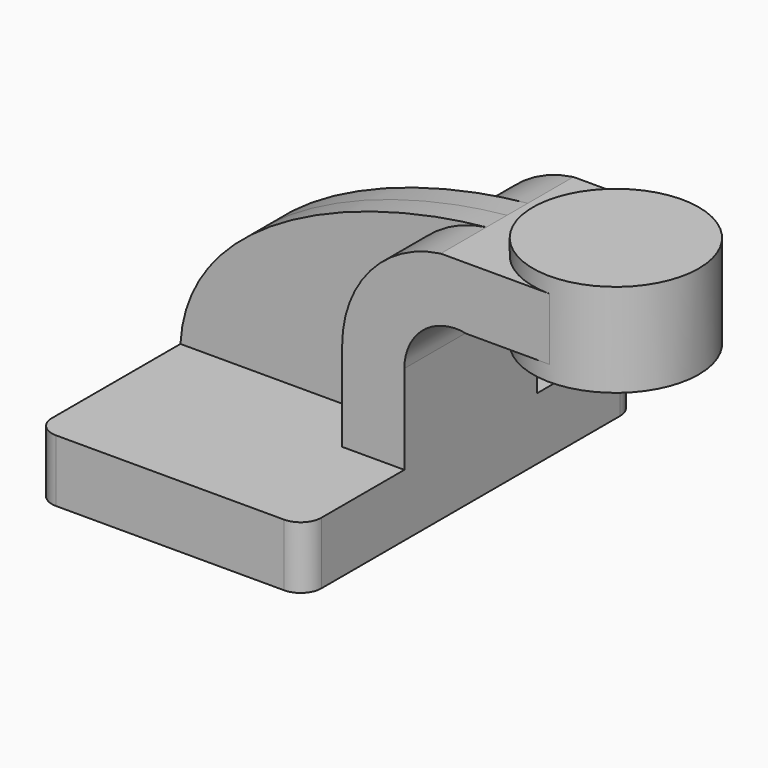
from build123d import *

# Parameters (mm, degrees)
F1_DEPTH = 63.5
F2_DEPTH = 25.4
F3_DEPTH = 7.9375
F4_DEPTH = 25.4
F6_R     = 6.35


with BuildPart() as f1:
    # F0 (on Front) → F1 (new body, symmetric)
    with BuildSketch(Plane.XZ):
        Polygon((-41.275, 9.525), (-41.275, -9.525), (41.275, -9.525), (41.275, 9.525), (22.225, 9.525), align=None)
    extrude(amount=F1_DEPTH, both=True)

    # F0 (on Front) → F2 (join, symmetric)
    with BuildSketch(Plane.XZ):
        with BuildLine():
            Line((22.225, 9.525), (41.275, 9.525))
            Line((41.275, 9.525), (41.275, 36.848876))
            ThreePointArc((41.275, 36.848876), (47.109768, 49.145598), (60.325, 52.403135))
            Line((60.325, 52.403135), (60.325, 71.4502))
            Line((60.325, 71.4502), (52.406165, 71.4502))
            ThreePointArc((52.406165, 71.4502), (30.830482, 59.806197), (22.225, 36.848876))
            Line((22.225, 36.848876), (22.225, 9.525))
        make_face()
    extrude(amount=F2_DEPTH, both=True)

    # F0 (on Front) → F3 (join, symmetric)
    with BuildSketch(Plane.XZ):
        with BuildLine():
            add(Edge.make_bspline(
                [(-41.275, 9.525), (-39.229893, 47.259647), (12.391411, 67.604472), (52.406165, 71.4502)],
                knots=[0, 0, 0, 0, 112.298224, 112.298224, 112.298224, 112.298224], degree=3))
            Line((-41.275, 9.525), (22.225, 9.525))
            Line((22.225, 9.525), (22.225, 36.848876))
            ThreePointArc((22.225, 36.848876), (30.830482, 59.806197), (52.406165, 71.4502))
        make_face()
    extrude(amount=F3_DEPTH, both=True)

    # F0 (on Front) → F4 (join, symmetric)
    with BuildSketch(Plane.XZ):
        with BuildLine():
            Line((85.725, 71.4502), (60.325, 71.4502))
            Line((60.325, 71.4502), (60.325, 52.403135))
            ThreePointArc((60.325, 52.403135), (60.332174, 52.401669), (60.339347, 52.4002))
            Line((60.339347, 52.4002), (85.725, 52.4002))
            Line((85.725, 52.4002), (85.725, 71.4502))
        make_face()
    extrude(amount=F4_DEPTH, both=True)

    # F0 (on Front) → F5 (revolve)
    with BuildSketch(Plane.XZ):
        Polygon((85.725, 76.2), (85.725, 71.4502), (85.725, 52.4002), (85.725, 47.625), (111.125, 47.625), (111.125, 76.2), align=None)
    revolve(axis=Axis((85.725, 0, 59.5376), (0, 0, -1)))

    # F6
    f6_edges = [f1.edges().sort_by_distance(p)[0] for p in [
        (41.275, -63.5, 0),
        (41.275, 63.5, 0),
        (-41.275, -63.5, 0),
        (-41.275, 63.5, 0),
    ]]
    fillet(f6_edges, radius=F6_R)


solid = f1.part
